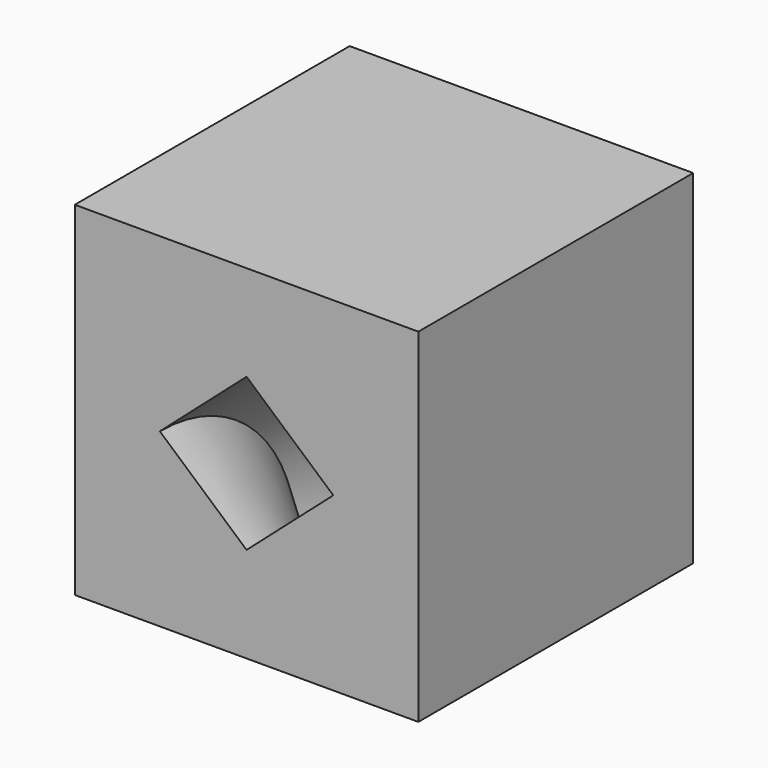
from build123d import *

# Parameters (mm, degrees)
F1_W     = 20
F1_H     = 20
F2_DEPTH = 20


with BuildPart() as f2:
    # F1 (on Front) → F2 (new body)
    with BuildSketch(Plane.XZ):
        Rectangle(F1_W, F1_H)
    extrude(amount=F2_DEPTH)

    # F3 (on face) → F4 (revolve, cut)
    with BuildSketch(Plane.XZ.offset(20)):
        Polygon((0, 4.4383937992), (-5.0483886876, 0), (0, -4.4383937992), (5.0483886876, 0), align=None)
    revolve(axis=Axis((0, -20, -10), (1, 0, 0)), mode=Mode.SUBTRACT)


solid = f2.part
